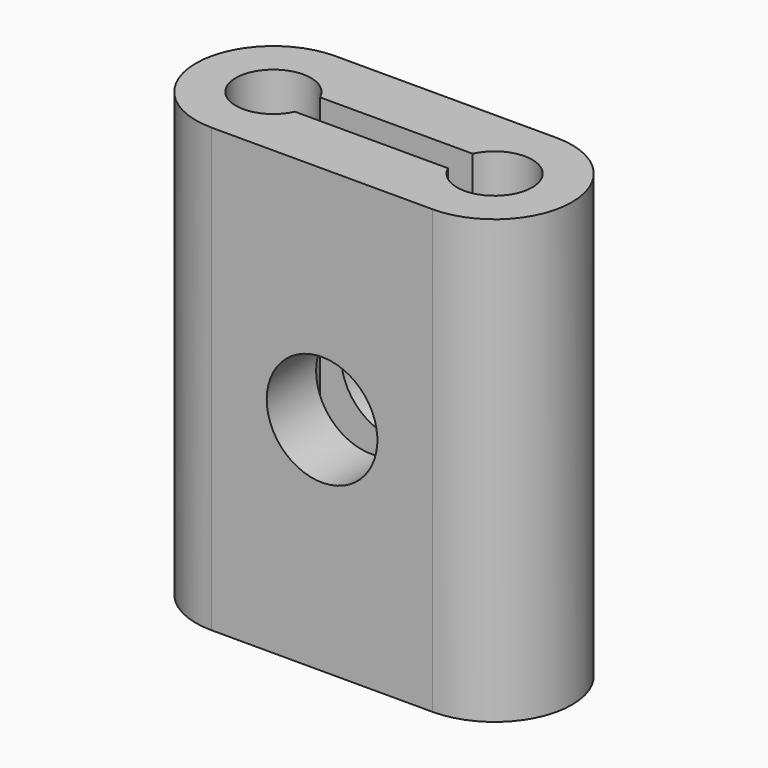
from build123d import *

# Parameters (mm, degrees)
F1_DEPTH = 20
F3_R     = 2.5
F4_DEPTH = 7.001


with BuildPart() as f1:
    # F0 (on Top) → F1 (new body)
    with BuildSketch(Plane.XY):
        with BuildLine():
            ThreePointArc((3.450807, 0.7), (6.699989, 0.006025), (3.455807, -0.710963))
            Line((3.455807, -0.710963), (0, -0.710963))
            Line((0, -0.710963), (0, -3.5))
            Line((0, -3.5), (5, -3.5))
            ThreePointArc((5, -3.5), (8.5, 0), (5, 3.5))
            Line((5, 3.5), (0, 3.5))
            Line((0, 3.5), (0, 0.7))
            Line((0, 0.7), (3.450807, 0.7))
        make_face()
    extrude(amount=F1_DEPTH)

    # F2: F1 across plane


with BuildPart() as f1_1:
    add(f1.part)
    add(f1.part.mirror(Plane.YZ))

    # F3 (on face) → F4 (cut, through all)
    with BuildSketch(Plane(origin=(0, 3.5, 0), x_dir=(-1, 0, 0), z_dir=(0, 1, 0))):
        with Locations((0, 10)):
            Circle(F3_R)
    extrude(amount=-F4_DEPTH, mode=Mode.SUBTRACT)


solid = f1_1.part
